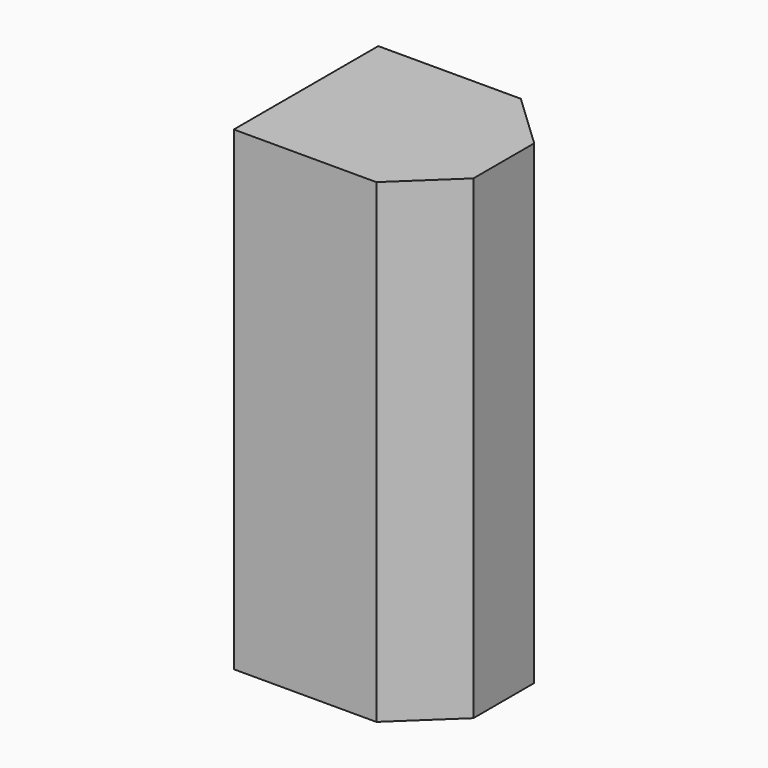
from build123d import *

# Parameters (mm, degrees)
F1_DEPTH = 50
F2_R     = 8.5
F3_DEPTH = 40


with BuildPart() as f1:
    # F0 (on Top) → F1 (new body)
    with BuildSketch(Plane.XY):
        Polygon((1.650066, 3.020267), (-13.349934, 3.020267), (-13.349934, -15.979733), (1.650066, -15.979733), (7.459541, -10.479733), (7.459541, -2.479733), align=None)
    extrude(amount=F1_DEPTH)

    # F2 (on Top) → F3 (cut)
    with BuildSketch(Plane.XY):
        with Locations((-2.349934, -6.479733)):
            Circle(F2_R)
    extrude(amount=F3_DEPTH, mode=Mode.SUBTRACT)


solid = f1.part
